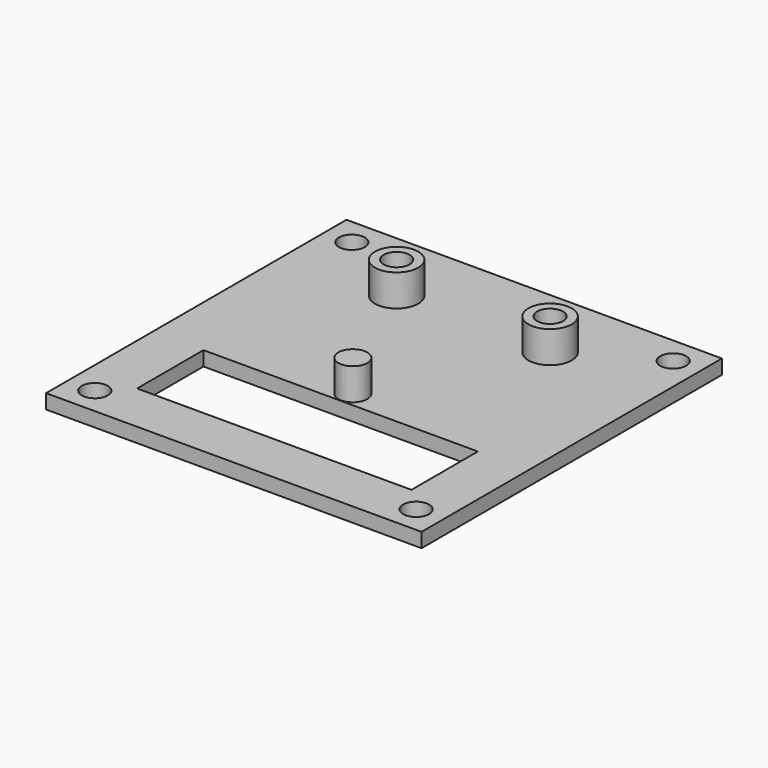
from build123d import *

# Parameters (mm, degrees)
SKETCH_W      = 52
SKETCH_H      = 52
SKETCH_R      = 1.8
SKETCH_W_2    = 38
SKETCH_H_2    = 11.5
PAD_DEPTH     = 2
SKETCH001_R   = 2
SKETCH001_R_2 = 3
SKETCH001_R_3 = 1.8
PAD001_DEPTH  = 4.4


with BuildPart() as part:
    # Sketch → Pad (new body)
    with BuildSketch(Plane.XY):
        Rectangle(SKETCH_W, SKETCH_H)
        with Locations((22.25, 22.25)):
            Circle(SKETCH_R, mode=Mode.SUBTRACT)
        with Locations((22.25, -22.25)):
            Circle(SKETCH_R, mode=Mode.SUBTRACT)
        with Locations((-22.25, 22.25)):
            Circle(SKETCH_R, mode=Mode.SUBTRACT)
        with Locations((-22.25, -22.25)):
            Circle(SKETCH_R, mode=Mode.SUBTRACT)
        with Locations((-10.65, 15.5)):
            Circle(SKETCH_R, mode=Mode.SUBTRACT)
        with Locations((10.6, 15.5)):
            Circle(SKETCH_R, mode=Mode.SUBTRACT)
        with Locations((0, -13.25)):
            Rectangle(SKETCH_W_2, SKETCH_H_2, mode=Mode.SUBTRACT)
    extrude(amount=PAD_DEPTH)

    # Sketch001 → Pad001 (new body)
    with BuildSketch(Plane.XY.offset(2)):
        with Locations((0, -5.4)):
            Circle(SKETCH001_R)
        with Locations((-10.65, 15.5)):
            Circle(SKETCH001_R_2)
        with Locations((-10.65, 15.5)):
            Circle(SKETCH001_R_3, mode=Mode.SUBTRACT)
        with Locations((10.6, 15.5)):
            Circle(SKETCH001_R_2)
        with Locations((10.6, 15.5)):
            Circle(SKETCH001_R_3, mode=Mode.SUBTRACT)
    extrude(amount=PAD001_DEPTH)


solid = part.part
